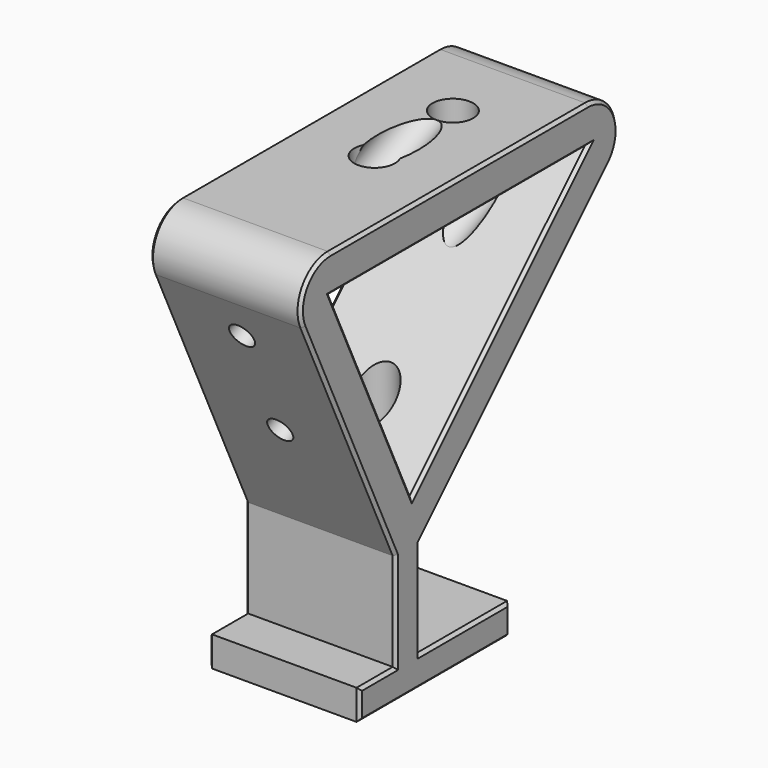
from build123d import *

# Parameters (mm, degrees)
PAD005_DEPTH       = 20
SKETCH012_R        = 1.65
POCKET001_DEPTH    = 5
SKETCH024_R        = 1.65
POCKET010_DEPTH    = 4.001
FILLET_R           = 5
SKETCH025_R        = 2.7
POCKET011_DEPTH    = 53.001
SKETCH026_R        = 2.7
POCKET012_DEPTH    = 45.3747092787
SKETCH027_R        = 2.7
POCKET013_DEPTH    = 5
CHAMFER007002_SIZE = 0.4


with BuildPart() as part:
    # Sketch011 → Pad005 (new body)
    with BuildSketch(Plane.YZ):
        Polygon((-15, 4), (-15, 0), (10, 0), (10, 4), (-5, 4), (-5, 17), (35, 57), (-27.6523063262, 57), (-9, 17), (-9, 4), align=None)
        Polygon((-19.8038784406, 52), (22.9289321881, 52), (-6.2142086739, 22.8568591379), align=None, mode=Mode.SUBTRACT)
    extrude(amount=PAD005_DEPTH)

    # Sketch012 (on Face13 of Pad005) → Pocket001 (cut)
    with BuildSketch(Plane(origin=(0, 3.6503724581, 1.7021966323), x_dir=(0, -0.4226182617, 0.906307787), z_dir=(0, 0.906307787, 0.4226182617))):
        with Locations((35, 10)):
            Circle(SKETCH012_R)
        with Locations((50, 10)):
            Circle(SKETCH012_R)
    extrude(amount=-POCKET001_DEPTH, mode=Mode.SUBTRACT)

    # Sketch024 (on Face8 of Pocket001) → Pocket010 (cut, through all)
    with BuildSketch(Plane(origin=(0, 0, 4), x_dir=(0, -1, 0), z_dir=(0, 0, 1))):
        with Locations((0, 10)):
            Circle(SKETCH024_R)
    extrude(amount=-POCKET010_DEPTH, mode=Mode.SUBTRACT)

    # Fillet
    fillet_edges = [part.edges().sort_by_distance(p)[0] for p in [
        (10, -27.652306, 57),
        (10, 35, 57),
    ]]
    fillet(fillet_edges, radius=FILLET_R)

    # Sketch025 (on Face6 of Fillet) → Pocket011 (cut, through all)
    with BuildSketch(Plane(origin=(0, 0, 4), x_dir=(0, -1, 0), z_dir=(0, 0, 1))):
        with Locations((0, 10)):
            Circle(SKETCH025_R)
    extrude(amount=POCKET011_DEPTH, mode=Mode.SUBTRACT)

    # Sketch026 (on Face16 of Pocket011) → Pocket012 (cut, through all)
    with BuildSketch(Plane(origin=(0, 3.6503724581, 1.7021966323), x_dir=(0, -0.4226182617, 0.906307787), z_dir=(0, 0.906307787, 0.4226182617))):
        with Locations((35, 10)):
            Circle(SKETCH026_R)
        with Locations((50, 10)):
            Circle(SKETCH026_R)
    extrude(amount=POCKET012_DEPTH, mode=Mode.SUBTRACT)

    # Sketch027 (on Face5 of Pocket012) → Pocket013 (cut)
    with BuildSketch(Plane(origin=(0, 0, 57), x_dir=(0, -1, 0), z_dir=(0, 0, 1))):
        with Locations((-13, 10)):
            Circle(SKETCH027_R)
    extrude(amount=-POCKET013_DEPTH, mode=Mode.SUBTRACT)

    # Chamfer007002
    chamfer007002_edges = [part.edges().sort_by_distance(p)[0] for p in [
        (0, 10.732233, 32.732233),
        (0, 27.54833, 53.913417),
        (0, -5, 10.5),
        (0, 1.562527, 57),
        (0, 2.5, 4),
        (0, -24.020836, 54.686498),
        (0, 10, 2),
        (0, -16.667709, 33.443454),
        (0, -2.5, 0),
        (0, -9, 10.5),
        (0, -15, 2),
        (0, -12, 4),
        (0, 1.562527, 52),
        (0, 8.357362, 37.42843),
        (0, -13.009044, 37.42843),
        (20, 10.732233, 32.732233),
        (20, 27.54833, 53.913417),
        (20, -5, 10.5),
        (20, 1.562527, 57),
        (20, 2.5, 4),
        (20, -24.020836, 54.686498),
        (20, 10, 2),
        (20, -16.667709, 33.443454),
        (20, -2.5, 0),
        (20, -9, 10.5),
        (20, -15, 2),
        (20, -12, 4),
        (20, 1.562527, 52),
        (20, 8.357362, 37.42843),
        (20, -13.009044, 37.42843),
        (10, -10.443947, 31.927561),
        (10, -16.78322, 45.522178),
        (10, 1.65, 4),
    ]]
    chamfer(chamfer007002_edges, length=CHAMFER007002_SIZE)


with BuildPart() as part_1:
    # Body004004002 placement: moved
    add(part.part.moved(Location((-53.5, 0, 4))))


solid = part_1.part
